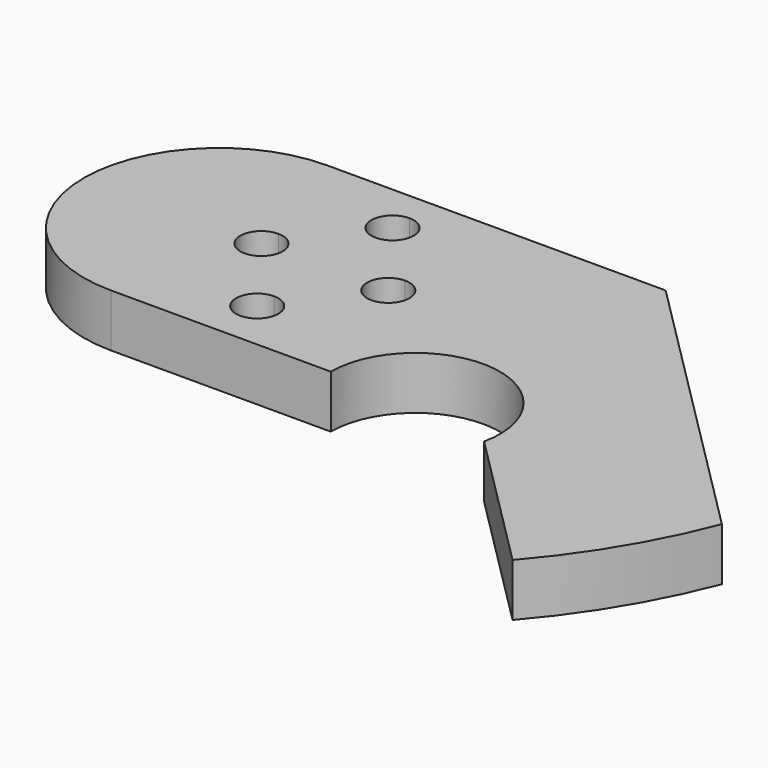
from build123d import *

# Parameters (mm, degrees)
F1_DEPTH = 1.5875
F3_DEPTH = 25.4


with BuildPart() as f1:
    # F0 (on Top) → F1 (new body, symmetric)
    with BuildSketch(Plane.XY):
        with BuildLine():
            Line((20.32, 8.128), (0, 8.128))
            ThreePointArc((0, 8.128), (-8.128, 0), (0, -8.128))
            Line((0, -8.128), (13.208, -8.128))
            ThreePointArc((13.208, -8.128), (18.8161559781, -3.0755301819), (23.2581776625, -9.1785874562))
            Line((23.2581776625, -9.1785874562), (31.8178486176, -17.7382584114))
            ThreePointArc((31.8178486176, -17.7382584114), (34.9051538271, -13.4868856063), (37.216470852, -8.768470852))
            Line((37.216470852, -8.768470852), (20.32, 8.128))
        make_face()
    extrude(amount=F1_DEPTH, both=True)

    # F2 (on face) → F3 (cut)
    with BuildSketch(Plane.XY.offset(1.5875)):
        with BuildLine():
            Line((10.16, 1.27), (10.16, -1.27))
            ThreePointArc((10.16, -1.27), (11.0580256121, -0.8980256121), (11.43, 0))
            ThreePointArc((11.43, 0), (11.0580256121, 0.8980256121), (10.16, 1.27))
        make_face()
        with BuildLine():
            ThreePointArc((10.16, 1.27), (8.89, 0), (10.16, -1.27))
            Line((10.16, -1.27), (10.16, 1.27))
        make_face()
        with BuildLine():
            Line((6.35, 6.35), (6.35, 3.81))
            ThreePointArc((6.35, 3.81), (7.2480256121, 4.1819743879), (7.62, 5.08))
            ThreePointArc((7.62, 5.08), (7.2480256121, 5.9780256121), (6.35, 6.35))
        make_face()
        with BuildLine():
            ThreePointArc((6.35, 6.35), (5.08, 5.08), (6.35, 3.81))
            Line((6.35, 3.81), (6.35, 6.35))
        make_face()
        with BuildLine():
            Line((2.54, 1.27), (2.54, -1.27))
            ThreePointArc((2.54, -1.27), (3.4380256121, -0.8980256121), (3.81, 0))
            ThreePointArc((3.81, 0), (3.4380256121, 0.8980256121), (2.54, 1.27))
        make_face()
        with BuildLine():
            ThreePointArc((2.54, 1.27), (1.27, 0), (2.54, -1.27))
            Line((2.54, -1.27), (2.54, 1.27))
        make_face()
        with BuildLine():
            ThreePointArc((6.35, -3.81), (5.08, -5.08), (6.35, -6.35))
            Line((6.35, -6.35), (6.35, -3.81))
        make_face()
        with BuildLine():
            Line((6.35, -3.81), (6.35, -6.35))
            ThreePointArc((6.35, -6.35), (7.2480256121, -5.9780256121), (7.62, -5.08))
            ThreePointArc((7.62, -5.08), (7.2480256121, -4.1819743879), (6.35, -3.81))
        make_face()
    extrude(amount=-F3_DEPTH, mode=Mode.SUBTRACT)


solid = f1.part
